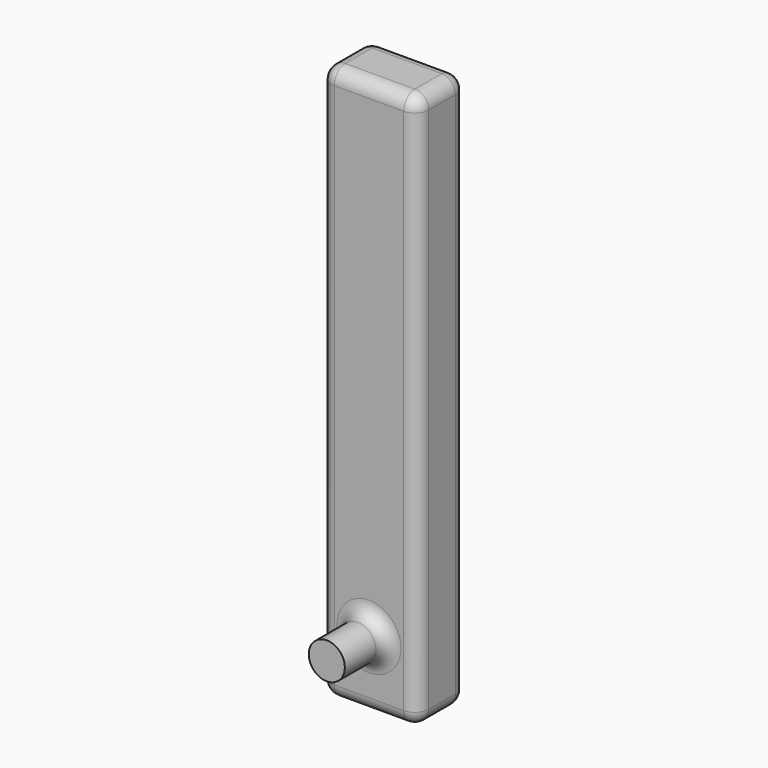
from build123d import *

# Parameters (mm, degrees)
F0_W     = 3.5
F0_H     = 20
F1_DEPTH = 2.2
F2_R     = 1
F3_DEPTH = 1.5
F4_R     = 0.65
F5_DEPTH = 1.9
F6_R     = 0.5


with BuildPart() as f1:
    # F0 (on Front) → F1 (new body)
    with BuildSketch(Plane.XZ):
        Rectangle(F0_W, F0_H)
    extrude(amount=F1_DEPTH)

    # F2 (on face) → F3 (cut)
    with BuildSketch(Plane(origin=(0, 0, 0), x_dir=(-1, 0, 0), z_dir=(0, 1, 0))):
        with Locations((0, 7.771334)):
            Circle(F2_R)
    extrude(amount=-F3_DEPTH, mode=Mode.SUBTRACT)

    # F4 (on face) → F5 (join)
    with BuildSketch(Plane.XZ.offset(2.2)):
        with Locations((0, -7.556978)):
            Circle(F4_R)
    extrude(amount=F5_DEPTH)

    # F6
    f6_edges = [f1.edges().sort_by_distance(p)[0] for p in [
        (1.75, -1.1, -10),
        (1.75, -1.1, 10),
        (1.75, 0, 0),
        (1.75, -2.2, 0),
        (0, -2.2, -10),
        (-1.75, -2.2, 0),
        (0, -2.2, 10),
        (-0.65, -2.2, -7.556978),
        (-1.75, -1.1, 10),
        (-1.75, -1.1, -10),
        (-1.75, 0, 0),
        (0, 0, 10),
        (0, 0, -10),
    ]]
    fillet(f6_edges, radius=F6_R)


solid = f1.part
